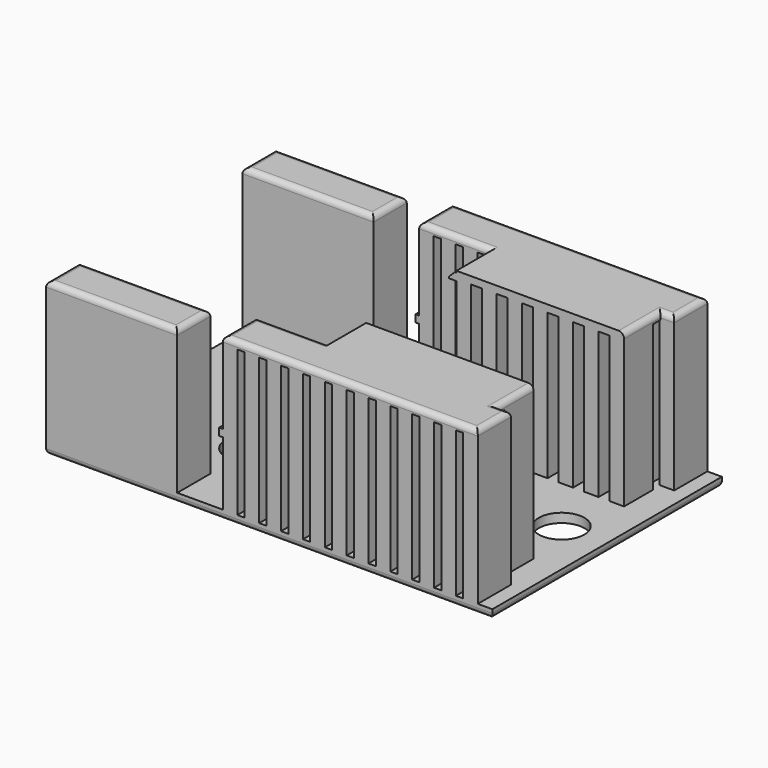
from build123d import *

# Parameters (mm, degrees)
F0_W      = 24.5
F0_H      = 15.75
F1_DEPTH  = 0.5
F2_W      = 7.2
F2_H      = 2.275
F3_DEPTH  = 7.9
F4_W      = 0.8
F4_H      = 2.275
F5_DEPTH  = 8
F6_W      = 2.275
F6_H      = 0.4
F7_DEPTH  = 0.2
F8_W      = 0.8
F8_H      = 2
F9_DEPTH  = 8
F10_W     = 9.2
F10_H     = 2.5
F11_DEPTH = 0.4
F12_W     = 2
F12_H     = 0.4
F13_DEPTH = 0.4
F14_SIZE  = 0.3
F15_R     = 0.3
F16_R     = 1.25
F17_DEPTH = 0.5


with BuildPart() as f1:
    # F0 (on Top) → F1 (new body)
    with BuildSketch(Plane.XY):
        with Locations((12.25, -7.875)):
            Rectangle(F0_W, F0_H)
    extrude(amount=F1_DEPTH)

    # F2 (on face) → F3 (join)
    with BuildSketch(Plane.XY.offset(0.5)):
        with Locations((3.6, -1.1375)):
            Rectangle(F2_W, F2_H)
        with Locations((3.6, -14.6125)):
            Rectangle(F2_W, F2_H)
    extrude(amount=F3_DEPTH)

    # F4 (on face) → F5 (join)
    with BuildSketch(Plane.XY.offset(0.5)):
        with Locations((10.1, -1.1375)):
            Rectangle(F4_W, F4_H)
        with Locations((11.3, -1.1375)):
            Rectangle(F4_W, F4_H)
        with Locations((12.5, -1.1375)):
            Rectangle(F4_W, F4_H)
        with Locations((13.7, -1.1375)):
            Rectangle(F4_W, F4_H)
        with Locations((14.9, -1.1375)):
            Rectangle(F4_W, F4_H)
        with Locations((10.1, -14.6125)):
            Rectangle(F4_W, F4_H)
        with Locations((11.3, -14.6125)):
            Rectangle(F4_W, F4_H)
        with Locations((14.9, -14.6125)):
            Rectangle(F4_W, F4_H)
        with Locations((12.5, -14.6125)):
            Rectangle(F4_W, F4_H)
        with Locations((13.7, -14.6125)):
            Rectangle(F4_W, F4_H)
        with Locations((16.1, -1.1375)):
            Rectangle(F4_W, F4_H)
        with Locations((17.3, -1.1375)):
            Rectangle(F4_W, F4_H)
        with Locations((18.5, -1.1375)):
            Rectangle(F4_W, F4_H)
        with Locations((18.5, -14.6125)):
            Rectangle(F4_W, F4_H)
        with Locations((16.1, -14.6125)):
            Rectangle(F4_W, F4_H)
        with Locations((17.3, -14.6125)):
            Rectangle(F4_W, F4_H)
        with Locations((19.7, -1.1375)):
            Rectangle(F4_W, F4_H)
        with Locations((20.9, -1.1375)):
            Rectangle(F4_W, F4_H)
        with Locations((22.1, -1.1375)):
            Rectangle(F4_W, F4_H)
        with Locations((23.3, -1.1375)):
            Rectangle(F4_W, F4_H)
        with Locations((19.7, -14.6125)):
            Rectangle(F4_W, F4_H)
        with Locations((20.9, -14.6125)):
            Rectangle(F4_W, F4_H)
        with Locations((22.1, -14.6125)):
            Rectangle(F4_W, F4_H)
        with Locations((23.3, -14.6125)):
            Rectangle(F4_W, F4_H)
    extrude(amount=F5_DEPTH)

    # F6 (on face) → F7 (join)
    with BuildSketch(Plane(origin=(9.7, 0, 0), x_dir=(0, -1, 0), z_dir=(-1, 0, 0))):
        with Locations((1.1375, 4.2)):
            Rectangle(F6_W, F6_H)
        with Locations((14.6125, 4.2)):
            Rectangle(F6_W, F6_H)
    extrude(amount=F7_DEPTH)

    # F8 (on face) → F9 (join)
    with BuildSketch(Plane.XY.offset(0.5)):
        with Locations((14.15, -3.775)):
            Rectangle(F8_W, F8_H)
        with Locations((15.55, -3.775)):
            Rectangle(F8_W, F8_H)
        with Locations((14.15, -11.975)):
            Rectangle(F8_W, F8_H)
        with Locations((15.55, -11.975)):
            Rectangle(F8_W, F8_H)
        with Locations((16.95, -3.775)):
            Rectangle(F8_W, F8_H)
        with Locations((16.95, -11.975)):
            Rectangle(F8_W, F8_H)
        with Locations((18.35, -3.775)):
            Rectangle(F8_W, F8_H)
        with Locations((19.75, -3.775)):
            Rectangle(F8_W, F8_H)
        with Locations((21.15, -3.775)):
            Rectangle(F8_W, F8_H)
        with Locations((22.55, -3.775)):
            Rectangle(F8_W, F8_H)
        with Locations((18.35, -11.975)):
            Rectangle(F8_W, F8_H)
        with Locations((21.15, -11.975)):
            Rectangle(F8_W, F8_H)
        with Locations((22.55, -11.975)):
            Rectangle(F8_W, F8_H)
        with Locations((19.75, -11.975)):
            Rectangle(F8_W, F8_H)
    extrude(amount=F9_DEPTH)

    # F10 (on face) → F11 (join)
    with BuildSketch(Plane.XY.offset(8.5)):
        Polygon((23.7, 0), (9.7, 0), (9.7, -2.275), (13.75, -2.275), (22.95, -2.275), (23.7, -2.275), align=None)
        with Locations((18.35, -3.525)):
            Rectangle(F10_W, F10_H)
        with Locations((18.35, -12.225)):
            Rectangle(F10_W, F10_H)
        Polygon((22.95, -13.475), (13.75, -13.475), (9.7, -13.475), (9.7, -15.75), (23.7, -15.75), (23.7, -13.475), align=None)
    extrude(amount=F11_DEPTH)

    # F12 (on face) → F13 (join)
    with BuildSketch(Plane(origin=(13.75, 0, 0), x_dir=(0, -1, 0), z_dir=(-1, 0, 0))):
        with Locations((3.775, 8.6)):
            Rectangle(F12_W, F12_H)
        with Locations((11.975, 8.6)):
            Rectangle(F12_W, F12_H)
    extrude(amount=F13_DEPTH)

    # F14
    f14_edges = [f1.edges().sort_by_distance(p)[0] for p in [
        (13.35, -3.775, 8.8),
        (13.35, -11.975, 8.8),
    ]]
    chamfer(f14_edges, length=F14_SIZE)

    # F15
    f15_edges = [f1.edges().sort_by_distance(p)[0] for p in [
        (12.25, 0, 0),
        (0, -7.875, 0),
        (12.25, -15.75, 0),
        (24.5, -7.875, 0),
        (0, -14.6125, 8.4),
        (3.6, -13.475, 8.4),
        (3.6, -15.75, 8.4),
        (7.2, -14.6125, 8.4),
        (3.6, -2.275, 8.4),
        (0, -1.1375, 8.4),
        (7.2, -1.1375, 8.4),
        (3.6, 0, 8.4),
        (11.725, -2.275, 8.9),
        (9.7, -1.1375, 8.9),
        (16.7, 0, 8.9),
        (23.7, -1.1375, 8.9),
        (23.325, -2.275, 8.9),
        (22.95, -3.525, 8.9),
        (22.95, -12.225, 8.9),
        (23.325, -13.475, 8.9),
        (23.7, -14.6125, 8.9),
        (16.7, -15.75, 8.9),
        (9.7, -14.6125, 8.9),
        (11.725, -13.475, 8.9),
    ]]
    fillet(f15_edges, radius=F15_R)

    # F16 (on face) → F17 (cut, through all)
    with BuildSketch(Plane.XY.offset(0.5)):
        with Locations((3, -5.125)):
            Circle(F16_R)
        with Locations((7, -5.125)):
            Circle(F16_R)
        with Locations((11, -5.125)):
            Circle(F16_R)
        with Locations((3, -10.625)):
            Circle(F16_R)
        with Locations((7, -10.625)):
            Circle(F16_R)
        with Locations((11, -10.625)):
            Circle(F16_R)
        with Locations((22, -7.875)):
            Circle(F16_R)
        with Locations((18, -7.875)):
            Circle(F16_R)
        with Locations((14, -7.875)):
            Circle(F16_R)
    extrude(amount=-F17_DEPTH, mode=Mode.SUBTRACT)


solid = f1.part
